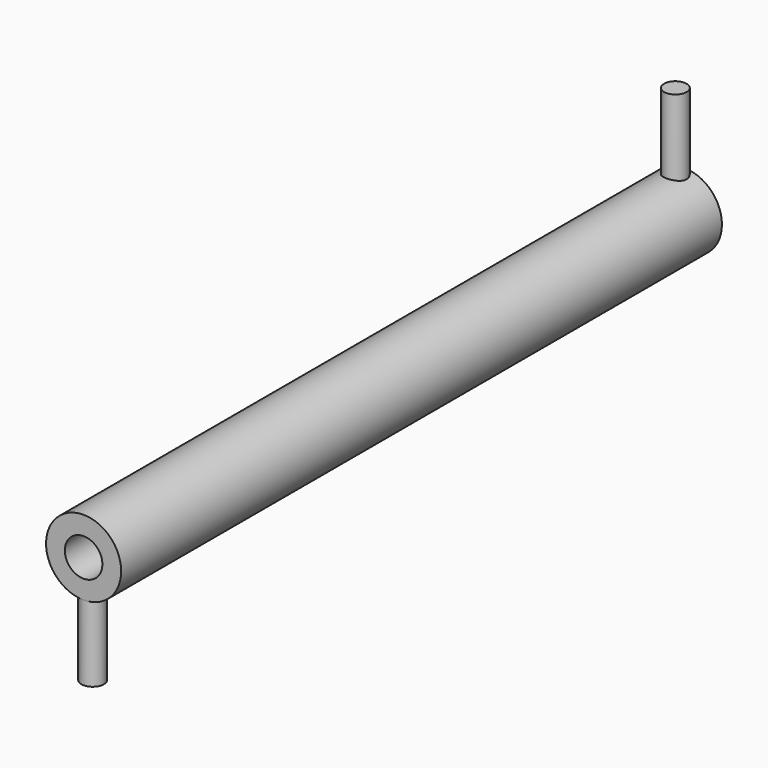
from build123d import *

# Parameters (mm, degrees)
F0_R     = 50
F0_R_2   = 25
F5_DEPTH = 1000
F2_R     = 15
F6_DEPTH = 125
F4_R     = 15
F7_DEPTH = 125


with BuildPart() as f5:
    # F0 (on Front) → F5 (new body)
    with BuildSketch(Plane.XZ):
        Circle(F0_R)
        Circle(F0_R_2, mode=Mode.SUBTRACT)
    extrude(amount=F5_DEPTH)

    # F2 (on offset) → F6 (join)
    with BuildSketch(Plane.XY.offset(25)):
        with Locations((0, -15)):
            Circle(F2_R)
    extrude(amount=F6_DEPTH)

    # F4 (on offset) → F7 (join)
    with BuildSketch(Plane.XY.offset(-25)):
        with Locations((0, -985)):
            Circle(F4_R)
    extrude(amount=-F7_DEPTH)


solid = f5.part
